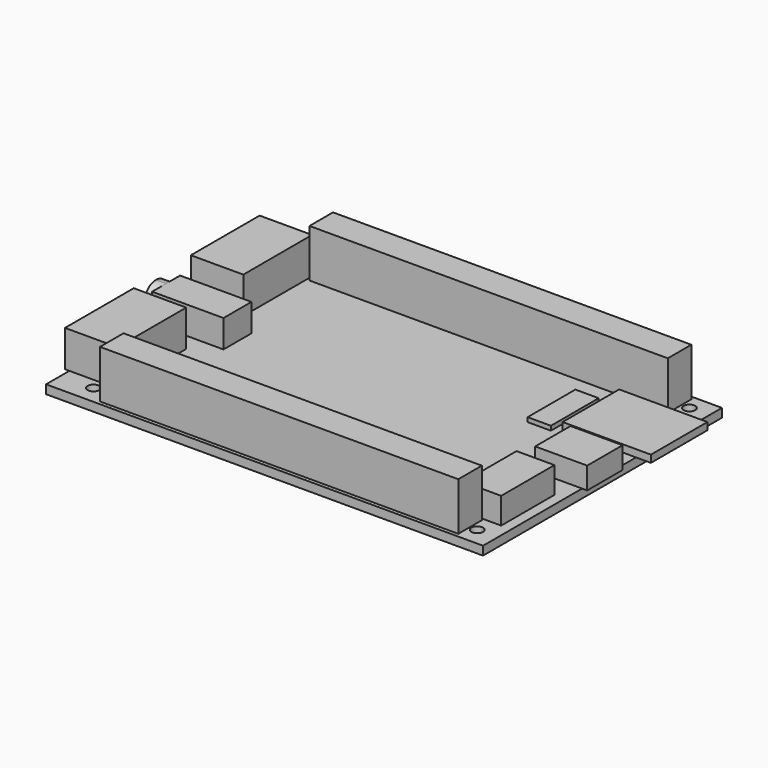
from build123d import *

# Parameters (mm, degrees)
F0_R      = 1.016
F0_W      = 62.484
F0_H      = 5.1308
F0_W_2    = 5.842
F0_H_2    = 5.842
F0_W_3    = 6.604
F0_H_3    = 11.6078
F0_W_4    = 4.064
F0_H_4    = 10.414
F0_W_5    = 12.8016
F0_H_5    = 12.319
F0_W_6    = 8.1788
F0_H_6    = 7.6962
F0_W_7    = 8.382
F0_H_7    = 14.986
F0_W_8    = 12.446
F0_H_8    = 6.096
F1_DEPTH  = 1.524
F2_DEPTH  = 8.382
F0_W_9    = 0.762
F3_DEPTH  = 6.35
F4_DEPTH  = 4.826
F5_DEPTH  = 2.286
F0_W_10   = 2.5908
F6_DEPTH  = 1.27
F0_W_11   = 0.889
F7_DEPTH  = 3.81
F8_DEPTH  = 4.572
F9_DEPTH  = 0.762
F11_DEPTH = 1.778


with BuildPart() as f1:
    # F0 (on Top) → F1 (new body)
    with BuildSketch(Plane.XY):
        Polygon((38.1, 26.035), (-38.1, 26.035), (-38.1, 21.463), (-29.718, 21.463), (-29.718, 6.477), (-38.1, 6.477), (-38.1, 3.175), (-25.654, 3.175), (-25.654, -2.921), (-38.1, -2.921), (-38.1, -5.969), (-29.718, -5.969), (-29.718, -20.955), (-38.1, -20.955), (-38.1, -26.035), (38.1, -26.035), (38.1, -4.445), (29.9212, -4.445), (29.9212, 3.2512), (38.1, 3.2512), (38.1, 7.3152), (25.2984, 7.3152), (25.2984, 19.6342), (38.1, 19.6342), align=None)
        with Locations((-32.385, -22.86)):
            Circle(F0_R, mode=Mode.SUBTRACT)
        with Locations((2.032, -22.8346)):
            Rectangle(F0_W, F0_H, mode=Mode.SUBTRACT)
        with Locations((3.429, -14.605)):
            Rectangle(F0_W_2, F0_H_2, mode=Mode.SUBTRACT)
        with Locations((34.544, -22.86)):
            Circle(F0_R, mode=Mode.SUBTRACT)
        with Locations((33.02, -14.0589)):
            Rectangle(F0_W_3, F0_H_3, mode=Mode.SUBTRACT)
        with Locations((-32.385, 23.114)):
            Circle(F0_R, mode=Mode.SUBTRACT)
        with Locations((22.098, 11.43)):
            Rectangle(F0_W_4, F0_H_4, mode=Mode.SUBTRACT)
        with Locations((2.032, 22.8346)):
            Rectangle(F0_W, F0_H, mode=Mode.SUBTRACT)
        with Locations((34.671, 23.241)):
            Circle(F0_R, mode=Mode.SUBTRACT)
        with Locations((2.032, 22.8346)):
            Rectangle(F0_W, F0_H)
        with Locations((31.6992, 13.4747)):
            Rectangle(F0_W_5, F0_H_5)
        with Locations((34.0106, -0.5969)):
            Rectangle(F0_W_6, F0_H_6)
        with Locations((33.02, -14.0589)):
            Rectangle(F0_W_3, F0_H_3)
        with Locations((2.032, -22.8346)):
            Rectangle(F0_W, F0_H)
        with Locations((3.429, -14.605)):
            Rectangle(F0_W_2, F0_H_2)
        with Locations((-33.909, -13.462)):
            Rectangle(F0_W_7, F0_H_7)
        with Locations((-31.877, 0.127)):
            Rectangle(F0_W_8, F0_H_8)
        with Locations((-33.909, 13.97)):
            Rectangle(F0_W_7, F0_H_7)
        with Locations((22.098, 11.43)):
            Rectangle(F0_W_4, F0_H_4)
    extrude(amount=-F1_DEPTH)

    # F0 (on Top) → F2 (join)
    with BuildSketch(Plane.XY):
        with Locations((2.032, 22.8346)):
            Rectangle(F0_W, F0_H)
        with Locations((2.032, -22.8346)):
            Rectangle(F0_W, F0_H)
    extrude(amount=F2_DEPTH)

    # F0 (on Top) → F3 (join)
    with BuildSketch(Plane.XY):
        with Locations((-33.909, 13.97)):
            Rectangle(F0_W_7, F0_H_7)
        with Locations((-38.481, 13.97)):
            Rectangle(F0_W_9, F0_H_7)
        with Locations((-38.481, -13.462)):
            Rectangle(F0_W_9, F0_H_7)
        with Locations((-33.909, -13.462)):
            Rectangle(F0_W_7, F0_H_7)
    extrude(amount=F3_DEPTH)

    # F0 (on Top) → F4 (join)
    with BuildSketch(Plane.XY):
        with Locations((-31.877, 0.127)):
            Rectangle(F0_W_8, F0_H_8)
    extrude(amount=F4_DEPTH)

    # F0 (on Top) → F5 (join)
    with BuildSketch(Plane.XY):
        with Locations((3.429, -14.605)):
            Rectangle(F0_W_2, F0_H_2)
    extrude(amount=F5_DEPTH)

    # F0 (on Top) → F6 (join)
    with BuildSketch(Plane.XY):
        with Locations((31.6992, 13.4747)):
            Rectangle(F0_W_5, F0_H_5)
        with Locations((39.3954, 13.4747)):
            Rectangle(F0_W_10, F0_H_5)
    extrude(amount=F6_DEPTH)

    # F0 (on Top) → F7 (join)
    with BuildSketch(Plane.XY):
        with Locations((34.0106, -0.5969)):
            Rectangle(F0_W_6, F0_H_6)
        with Locations((38.5445, -0.5969)):
            Rectangle(F0_W_11, F0_H_6)
    extrude(amount=F7_DEPTH)

    # F0 (on Top) → F8 (join)
    with BuildSketch(Plane.XY):
        with Locations((33.02, -14.0589)):
            Rectangle(F0_W_3, F0_H_3)
    extrude(amount=F8_DEPTH)

    # F0 (on Top) → F9 (join)
    with BuildSketch(Plane.XY):
        with Locations((22.098, 11.43)):
            Rectangle(F0_W_4, F0_H_4)
    extrude(amount=F9_DEPTH)

    # F10 (on face) → F11 (join)
    with BuildSketch(Plane(origin=(-38.1, 0, 0), x_dir=(0, -1, 0), z_dir=(-1, 0, 0))):
        with BuildLine():
            Line((-0.127, 2.286), (2.413, 2.286))
            ThreePointArc((2.413, 2.286), (1.669051, 4.082051), (-0.127, 4.826))
            Line((-0.127, 4.826), (-0.127, 2.286))
        make_face()
        with BuildLine():
            Line((-0.127, 2.286), (-0.127, 4.826))
            ThreePointArc((-0.127, 4.826), (-1.923051, 4.082051), (-2.667, 2.286))
            Line((-2.667, 2.286), (-0.127, 2.286))
        make_face()
        with BuildLine():
            ThreePointArc((-2.667, 2.286), (-0.127, -0.254), (2.413, 2.286))
            Line((2.413, 2.286), (-0.127, 2.286))
            Line((-0.127, 2.286), (-2.667, 2.286))
        make_face()
    extrude(amount=F11_DEPTH)


solid = f1.part
